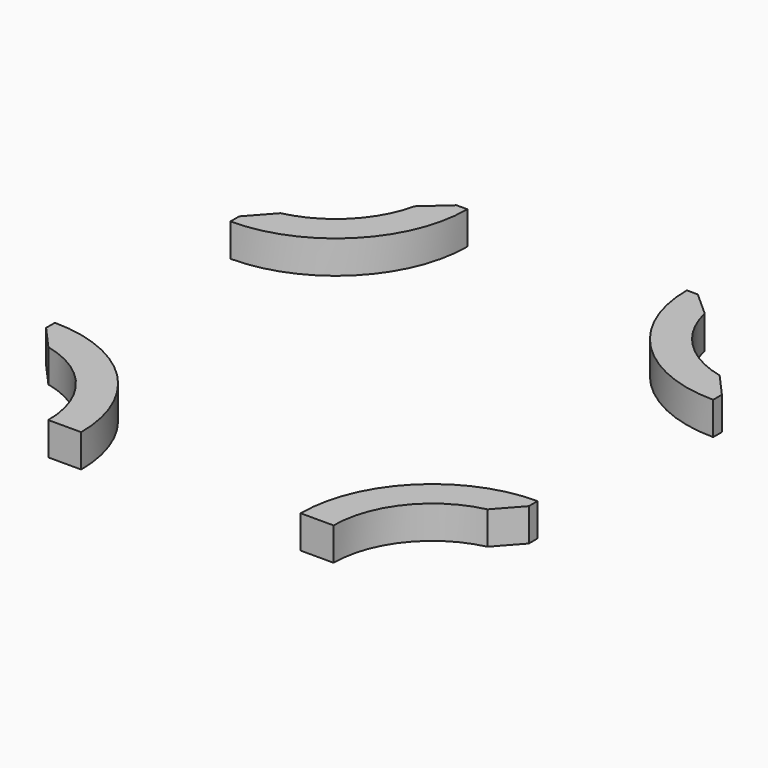
from build123d import *

# Parameters (mm, degrees)
BOX733_W        = 44
BOX733_H        = 44
BOX733_DEPTH    = 50
TUBE072_R       = 12
TUBE072_R_2     = 9
TUBE072_DEPTH   = 3
TUBE071_R       = 12
TUBE071_R_2     = 9
TUBE071_DEPTH   = 3
TUBE073_R       = 12
TUBE073_R_2     = 9
TUBE073_DEPTH   = 3
TUBE070_R       = 12
TUBE070_R_2     = 9
TUBE070_DEPTH   = 3
CHAMFER008_SIZE = 2
CHAMFER010_SIZE = 2


with BuildPart() as krychle732:
    # Box733 → Box733 (new body)
    with BuildSketch(Plane(origin=(-22, -22, -126), x_dir=(1, 0, 0), z_dir=(0, 0, 1))):
        with Locations((22, 22)):
            Rectangle(BOX733_W, BOX733_H)
    extrude(amount=BOX733_DEPTH)


with BuildPart() as tube072:
    # Tube072 → Tube072 (new body)
    with BuildSketch(Plane(origin=(22, -22, -126), x_dir=(1, 0, 0), z_dir=(0, 0, 1))):
        Circle(TUBE072_R)
        Circle(TUBE072_R_2, mode=Mode.SUBTRACT)
    extrude(amount=TUBE072_DEPTH)


with BuildPart() as tube071:
    # Tube071 → Tube071 (new body)
    with BuildSketch(Plane(origin=(-22, 22, -126), x_dir=(1, 0, 0), z_dir=(0, 0, 1))):
        Circle(TUBE071_R)
        Circle(TUBE071_R_2, mode=Mode.SUBTRACT)
    extrude(amount=TUBE071_DEPTH)


with BuildPart() as tube073:
    # Tube073 → Tube073 (new body)
    with BuildSketch(Plane(origin=(22, 22, -126), x_dir=(1, 0, 0), z_dir=(0, 0, 1))):
        Circle(TUBE073_R)
        Circle(TUBE073_R_2, mode=Mode.SUBTRACT)
    extrude(amount=TUBE073_DEPTH)


with BuildPart() as chamfer010:
    # Tube070 → Tube070 (new body)
    with BuildSketch(Plane(origin=(-22, -22, -126), x_dir=(1, 0, 0), z_dir=(0, 0, 1))):
        Circle(TUBE070_R)
        Circle(TUBE070_R_2, mode=Mode.SUBTRACT)
    extrude(amount=TUBE070_DEPTH)

    # Compound839: union Tube072, Tube071, Tube073
    add(tube072.part)
    add(tube071.part)
    add(tube073.part)

    # Common015: intersect Krychle732
    add(krychle732.part, mode=Mode.INTERSECT)


with BuildPart() as chamfer010_1:
    # Common015 placement: moved
    add(chamfer010.part.moved(Location((0, 0, -1))))

    # Chamfer008
    chamfer008_edges = [chamfer010_1.edges().sort_by_distance(p)[0] for p in [
        (22, -13, -125.5),
        (22, 13, -125.5),
        (13, 22, -125.5),
    ]]
    chamfer(chamfer008_edges, length=CHAMFER008_SIZE)

    # Chamfer010
    chamfer010_edges = [chamfer010_1.edges().sort_by_distance(p)[0] for p in [
        (-22, -13, -125.5),
        (-13, 22, -125.5),
        (-22, 13, -125.5),
    ]]
    chamfer(chamfer010_edges, length=CHAMFER010_SIZE)


solid = chamfer010_1.part
